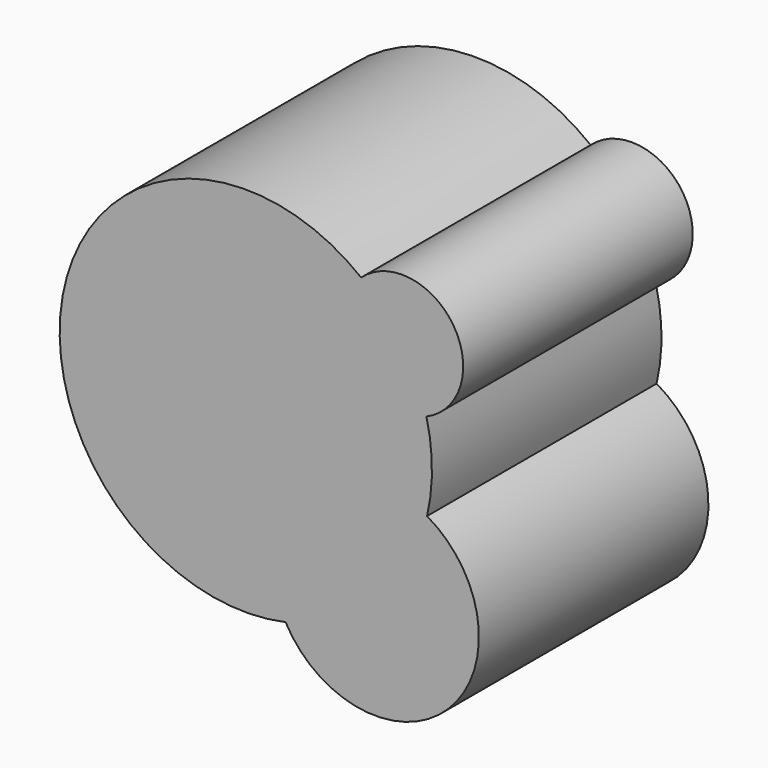
from build123d import *

# Parameters (mm, degrees)
F1_DEPTH = 65.12827


with BuildPart() as f1:
    # F0 (on Front) → F1 (new body)
    with BuildSketch(Plane.XZ):
        with BuildLine():
            ThreePointArc((9.018398, -41.276914), (45.927111, -46.622978), (41.136639, -9.638051))
            ThreePointArc((41.136639, -9.638051), (42.249571, 0.298043), (40.996571, 10.217448))
            ThreePointArc((40.996571, 10.217448), (47.123403, 30.437363), (26.172795, 33.167754))
            ThreePointArc((26.172795, 33.167754), (-41.171679, 9.487252), (9.018398, -41.276914))
        make_face()
    extrude(amount=F1_DEPTH)


solid = f1.part
